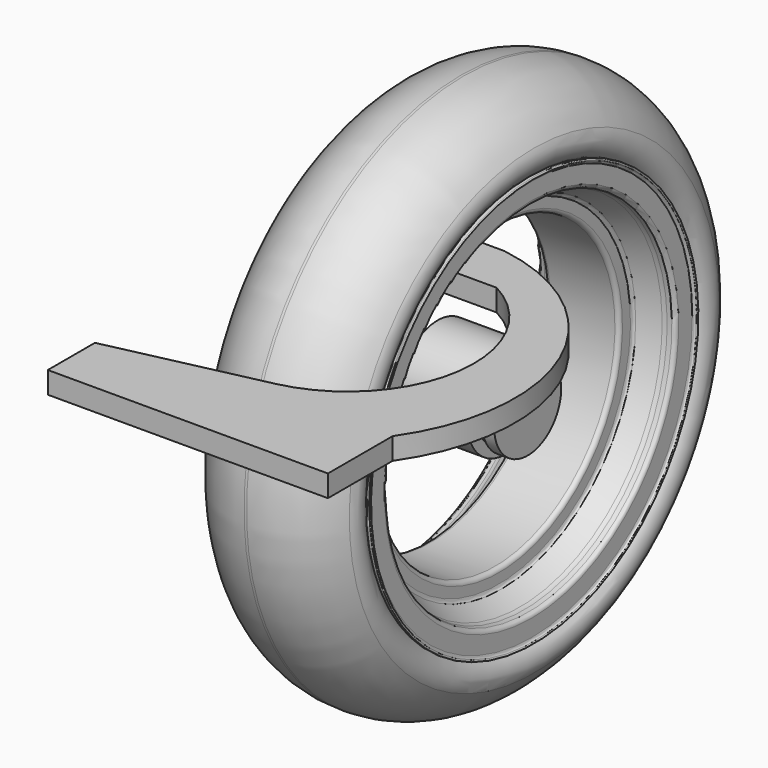
from build123d import *

# Parameters (mm, degrees)
F12_DEPTH = 25


with BuildPart() as f1:
    # F0 (on Front) → F1 (revolve)
    with BuildSketch(Plane.XZ):
        with BuildLine():
            Line((-79.090729, 230.670154), (-79.090729, 211.131689))
            ThreePointArc((-79.090729, 211.131689), (-77.954124, 208.038312), (-75.085096, 206.416732))
            Line((-75.085096, 206.416732), (-70.277608, 205.629452))
            ThreePointArc((-70.277608, 205.629452), (-67.95422, 205.056343), (-65.750919, 204.122504))
            Line((-65.750919, 204.122504), (-44.302816, 192.945326))
            ThreePointArc((-44.302816, 192.945326), (-42.425696, 191.186048), (-41.733045, 188.708372))
            Line((-41.733045, 188.708372), (-41.733045, 177.192722))
            ThreePointArc((-41.733045, 177.192722), (-40.333672, 173.814335), (-36.955285, 172.414962))
            Line((-36.955285, 172.414962), (0, 172.414962))
            Line((0, 172.414962), (36.955285, 172.414962))
            ThreePointArc((36.955285, 172.414962), (40.333672, 173.814335), (41.733045, 177.192722))
            Line((41.733045, 177.192722), (41.733045, 188.708372))
            ThreePointArc((41.733045, 188.708372), (42.425696, 191.186048), (44.302816, 192.945326))
            Line((44.302816, 192.945326), (65.750919, 204.122504))
            ThreePointArc((65.750919, 204.122504), (67.95422, 205.056343), (70.277608, 205.629452))
            Line((70.277608, 205.629452), (75.085096, 206.416732))
            ThreePointArc((75.085096, 206.416732), (77.954124, 208.038312), (79.090729, 211.131689))
            Line((79.090729, 211.131689), (79.090729, 230.670154))
            ThreePointArc((79.090729, 230.670154), (79.768247, 232.639909), (81.514096, 233.776122))
            ThreePointArc((81.514096, 233.776122), (82.374832, 234.879305), (81.514096, 235.982488))
            ThreePointArc((81.514096, 235.982488), (77.016568, 235.031136), (75, 230.9))
            Line((75, 230.9), (75, 215.9))
            Line((75, 215.9), (71.649668, 215.9))
            ThreePointArc((71.649668, 215.9), (66.992303, 215.29769), (62.641387, 213.530389))
            Line((62.641387, 213.530389), (37.198994, 199.150223))
            ThreePointArc((37.198994, 199.150223), (34.418258, 196.407422), (33.398723, 192.637011))
            Line((33.398723, 192.637011), (33.398723, 190.085972))
            ThreePointArc((33.398723, 190.085972), (31.207422, 184.795703), (25.917153, 182.604402))
            Line((25.917153, 182.604402), (0, 182.604402))
            Line((0, 182.604402), (-25.917153, 182.604402))
            ThreePointArc((-25.917153, 182.604402), (-31.207422, 184.795703), (-33.398723, 190.085972))
            Line((-33.398723, 190.085972), (-33.398723, 192.637011))
            ThreePointArc((-33.398723, 192.637011), (-34.418258, 196.407422), (-37.198994, 199.150223))
            Line((-37.198994, 199.150223), (-62.641387, 213.530389))
            ThreePointArc((-62.641387, 213.530389), (-66.992303, 215.29769), (-71.649668, 215.9))
            Line((-71.649668, 215.9), (-75, 215.9))
            Line((-75, 215.9), (-75, 230.9))
            ThreePointArc((-75, 230.9), (-77.016568, 235.031136), (-81.514096, 235.982488))
            ThreePointArc((-81.514096, 235.982488), (-82.374832, 234.879305), (-81.514096, 233.776122))
            ThreePointArc((-81.514096, 233.776122), (-79.768247, 232.639909), (-79.090729, 230.670154))
        make_face()
    revolve(axis=Axis((3.255159, 0, 0), (1, 0, 0)))


with BuildPart() as f3:
    # F2 (on Front) → F3 (revolve)
    with BuildSketch(Plane.XZ):
        with BuildLine():
            Line((-75, 229.820445), (-75, 216.020703))
            Line((-75, 216.020703), (-67.717614, 216.020703))
            Line((-67.717614, 216.020703), (-67.717614, 221.323519))
            Line((-67.717614, 221.323519), (-69.580603, 226.580086))
            ThreePointArc((-69.580603, 226.580086), (-70.89781, 234.835243), (-75.884764, 241.544412))
            ThreePointArc((-75.884764, 241.544412), (-80.211515, 251.905263), (-77.796912, 262.870559))
            ThreePointArc((-77.796912, 262.870559), (-44.908279, 295.521731), (0, 306.967586))
            ThreePointArc((0, 306.967586), (44.908279, 295.521731), (77.796912, 262.870559))
            ThreePointArc((77.796912, 262.870559), (80.211515, 251.905263), (75.884764, 241.544412))
            ThreePointArc((75.884764, 241.544412), (70.89781, 234.835243), (69.580603, 226.580086))
            Line((69.580603, 226.580086), (67.717614, 221.323519))
            Line((67.717614, 221.323519), (67.717614, 216.020703))
            Line((67.717614, 216.020703), (75, 216.020703))
            Line((75, 216.020703), (75, 229.820445))
            ThreePointArc((75, 229.820445), (75.735764, 233.370407), (77.821841, 236.335516))
            ThreePointArc((77.821841, 236.335516), (85.030174, 250.101661), (82.128753, 265.36759))
            ThreePointArc((82.128753, 265.36759), (48.042578, 299.488841), (1.458175, 311.979654))
            Line((1.458175, 311.979654), (-1.458175, 311.979654))
            ThreePointArc((-1.458175, 311.979654), (-48.042578, 299.488841), (-82.128753, 265.36759))
            ThreePointArc((-82.128753, 265.36759), (-85.030174, 250.101661), (-77.821841, 236.335516))
            ThreePointArc((-77.821841, 236.335516), (-75.735764, 233.370407), (-75, 229.820445))
        make_face()
    revolve(axis=Axis((-20.482503, 0, 0), (1, 0, 0)))


with BuildPart() as f5:
    # F4 (on Front) → F5 (revolve)
    with BuildSketch(Plane.XZ):
        Polygon((-67.63519, 0), (74.628577, 0), (74.628577, 48.06052), (60.621452, 48.06052), (60.621452, 22.380801), (38.482949, 22.380801), (38.482949, 14.947309), (0, 14.947309), (-31.96577, 14.947309), (-57.256404, 5.220141), (-67.63519, 5.220141), align=None)
    revolve(axis=Axis((-0.854243, 0, 0), (1, 0, 0)))


with BuildPart() as f9:
    # F8 (on face) → F9 (revolve)
    with BuildSketch(Plane(origin=(0, 0, 0), x_dir=(1, 0, 0), z_dir=(0, -0.984808, -0.173648))):
        Polygon((-10.25969, 17.357733), (0, 17.357733), (19.960251, 17.357733), (19.960251, 36.338855), (38.941372, 36.338855), (38.941372, 42.332891), (49.181186, 42.332891), (49.181186, 55.070221), (-28.741308, 55.070221), (-28.741308, 37.587609), (-10.25969, 37.587609), align=None)
    revolve(axis=Axis((2.602514, 0, 0), (1, 0, 0)))


with BuildPart() as f12:
    # F11 (on offset) → F12 (new body)
    with BuildSketch(Plane.XY.offset(125)):
        with BuildLine():
            Line((17.612508, 0), (17.612508, -60.030005))
            Line((17.612508, -60.030005), (87.133703, -60.030005))
            ThreePointArc((87.133703, -60.030005), (161.631955, -207.899933), (49.196113, -329.446987))
            Line((49.196113, -329.446987), (-127.401161, -368.517569))
            Line((-127.401161, -368.517569), (-127.401161, -436.114199))
            Line((-127.401161, -436.114199), (194.189921, -436.114199))
            Line((194.189921, -436.114199), (194.189921, -343.27659))
            ThreePointArc((194.189921, -343.27659), (216.267253, -131.076637), (47.936793, 0))
            Line((47.936793, 0), (17.612508, 0))
        make_face()
    extrude(amount=F12_DEPTH)


solid = Compound([f1.part, f3.part, f5.part, f9.part, f12.part])
